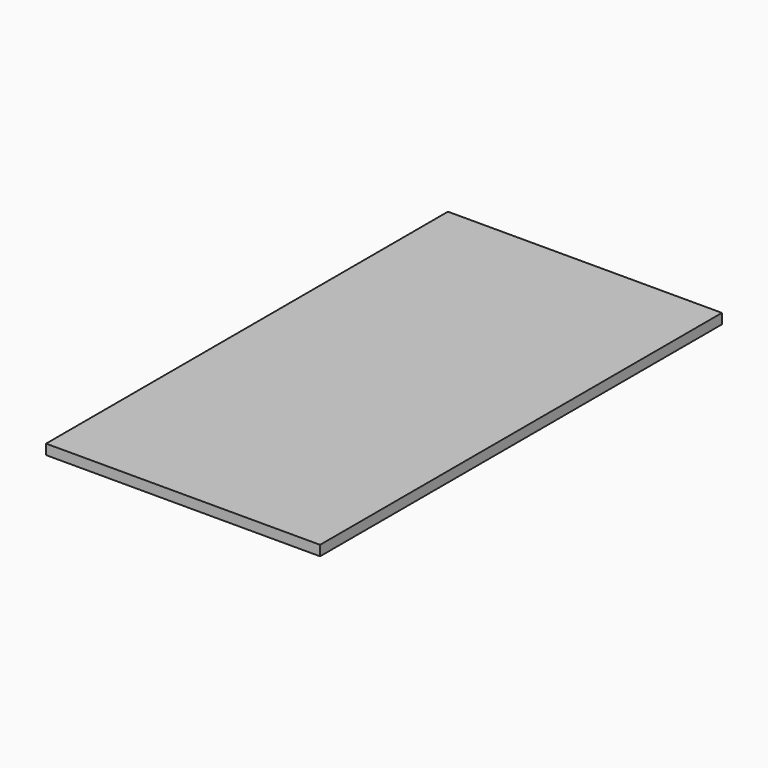
from build123d import *

# Parameters (mm, degrees)
SKETCH_W     = 270
SKETCH_H     = 540
PAD_DEPTH    = 10
PAD_FACE2_W  = 270
PAD_FACE2_H  = 10
POCKET_DEPTH = 45


with BuildPart() as part:
    # Sketch → Pad (new body)
    with BuildSketch(Plane.XY):
        with Locations((121.579207, -255.705242)):
            Rectangle(SKETCH_W, SKETCH_H)
    extrude(amount=PAD_DEPTH)

    # Pad Face2 → Pocket (cut)
    with BuildSketch(Plane(origin=(121.579207, -525.705242, 5), x_dir=(-1, 0, 0), z_dir=(0, -1, 0))):
        Rectangle(PAD_FACE2_W, PAD_FACE2_H)
    extrude(amount=-POCKET_DEPTH, mode=Mode.SUBTRACT)


solid = part.part
